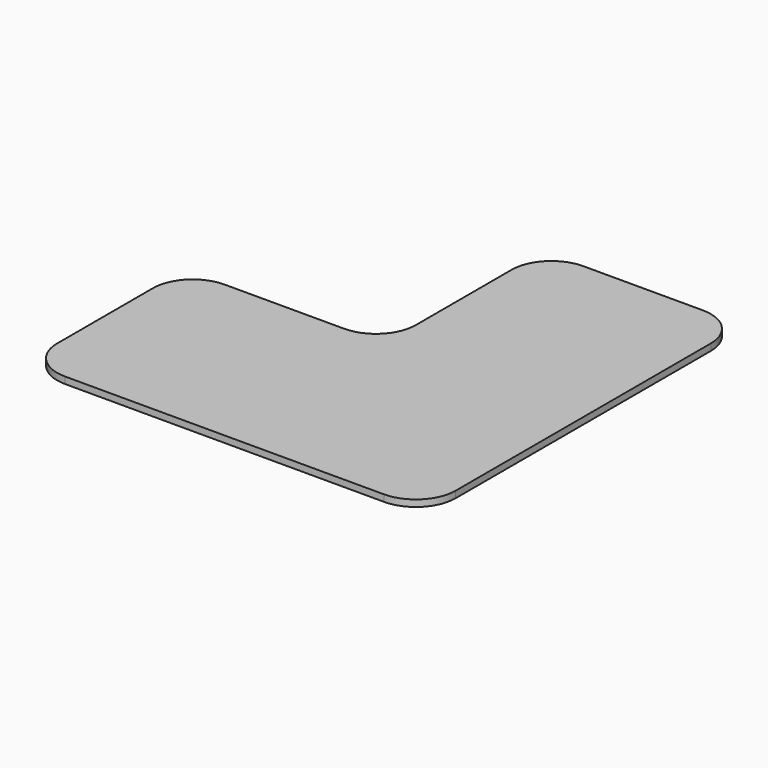
from build123d import *

# Parameters (mm, degrees)
F1_DEPTH = 6.35
F2_R     = 38.1


with BuildPart() as f1:
    # F0 (on Top) → F1 (new body)
    with BuildSketch(Plane.XY):
        Polygon((217.161109, 128.115339), (26.661109, 128.115339), (26.661109, -62.384661), (-163.838891, -62.384661), (-163.838891, -252.884661), (217.161109, -252.884661), align=None)
    extrude(amount=F1_DEPTH)

    # F2
    f2_edges = [f1.edges().sort_by_distance(p)[0] for p in [
        (217.161109, -252.884661, 3.175),
        (217.161109, 128.115339, 3.175),
        (26.661109, 128.115339, 3.175),
        (26.661109, -62.384661, 3.175),
        (-163.838891, -62.384661, 3.175),
        (-163.838891, -252.884661, 3.175),
    ]]
    fillet(f2_edges, radius=F2_R)


solid = f1.part
